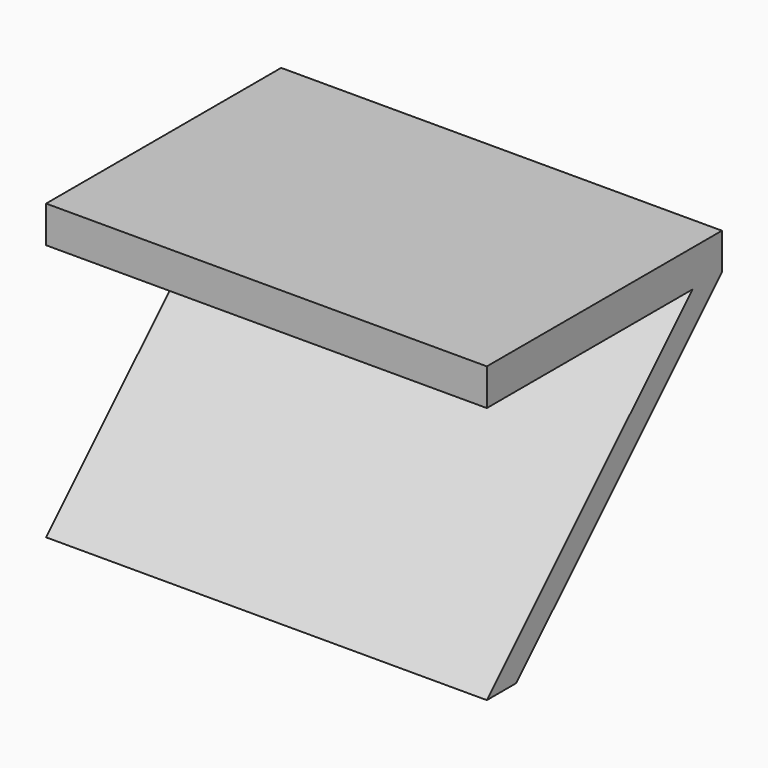
from build123d import *

# Parameters (mm, degrees)
F0_W     = 152.4
F0_H     = 101.6
F1_DEPTH = 101.6
F3_DEPTH = 152.4


with BuildPart() as f1:
    # F0 (on Top) → F1 (new body)
    with BuildSketch(Plane.XY):
        with Locations((1.654342, 7.486169)):
            Rectangle(F0_W, F0_H)
    extrude(amount=F1_DEPTH)

    # F2 (on face) → F3 (cut)
    with BuildSketch(Plane(origin=(-74.545658, 0, 0), x_dir=(0, -1, 0), z_dir=(-1, 0, 0))):
        Polygon((43.313831, 88.9), (-45.586169, 88.9), (43.313831, 0), align=None)
        Polygon((30.613831, 0), (-58.286169, 88.9), (-58.286169, 0), align=None)
    extrude(amount=-F3_DEPTH, mode=Mode.SUBTRACT)


solid = f1.part
